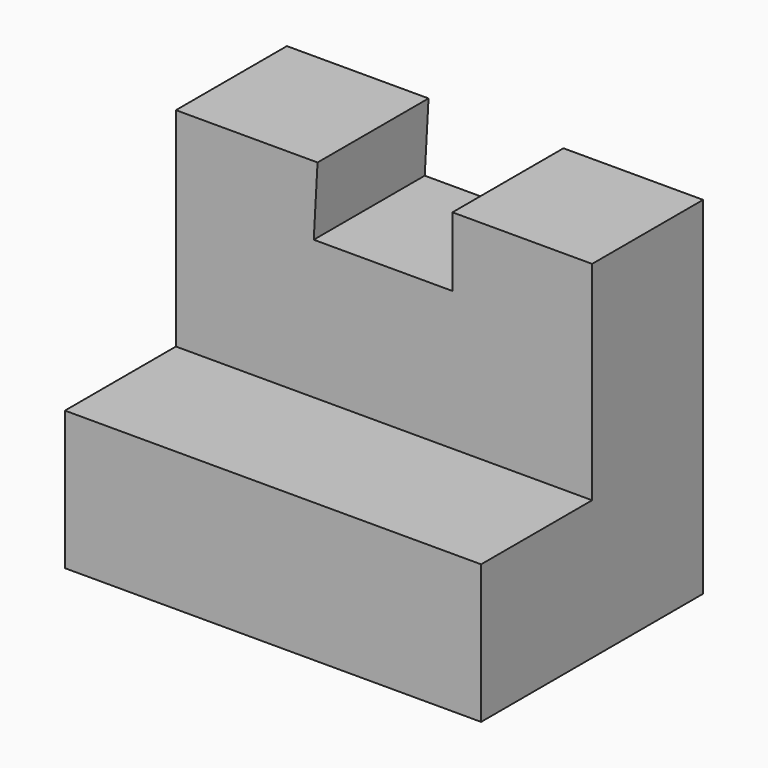
from build123d import *

# Parameters (mm, degrees)
F1_DEPTH = 38.1
F3_DEPTH = 12.701


with BuildPart() as f1:
    # F0 (on Right) → F1 (new body)
    with BuildSketch(Plane.YZ):
        Polygon((0, 0), (0, 31.75), (-12.7, 31.75), (-12.7, 12.7), (-25.4, 12.7), (-25.4, 0), align=None)
    extrude(amount=F1_DEPTH)

    # F2 (on face) → F3 (cut, through all)
    with BuildSketch(Plane.XZ.offset(12.7)):
        Polygon((25.318417, 31.75), (12.966445, 31.75), (12.618417, 25.409544), (25.318417, 25.409544), align=None)
    extrude(amount=-F3_DEPTH, mode=Mode.SUBTRACT)


solid = f1.part
